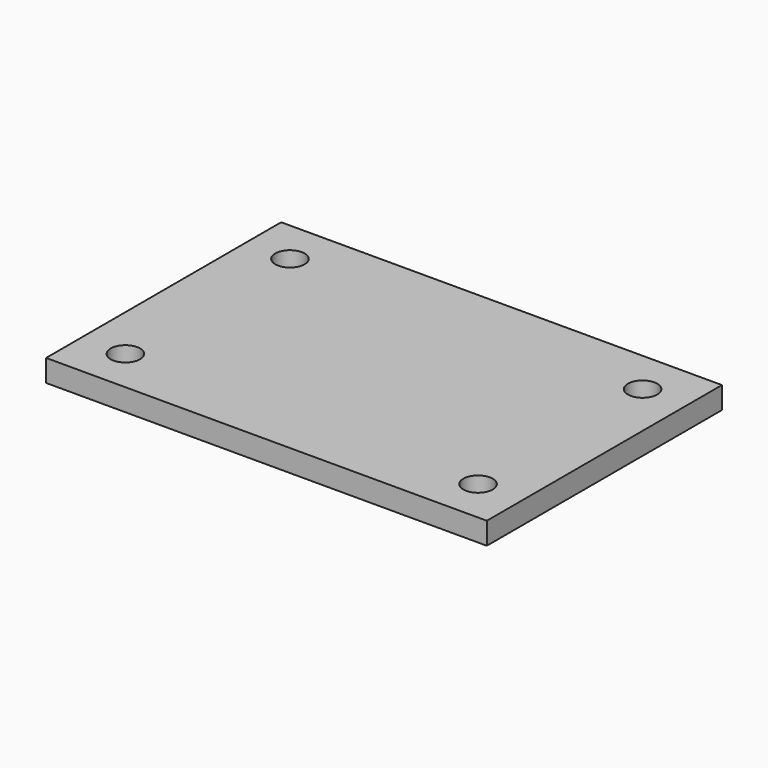
from build123d import *

# Parameters (mm, degrees)
SKETCH_W  = 60
SKETCH_H  = 40
SKETCH_R  = 2
PAD_DEPTH = 3


with BuildPart() as part:
    # Sketch → Pad (new body)
    with BuildSketch(Plane.XY):
        Rectangle(SKETCH_W, SKETCH_H)
        with Locations((-24, 14)):
            Circle(SKETCH_R, mode=Mode.SUBTRACT)
        with Locations((24, 14)):
            Circle(SKETCH_R, mode=Mode.SUBTRACT)
        with Locations((-24, -14)):
            Circle(SKETCH_R, mode=Mode.SUBTRACT)
        with Locations((24, -14)):
            Circle(SKETCH_R, mode=Mode.SUBTRACT)
    extrude(amount=PAD_DEPTH)


solid = part.part
